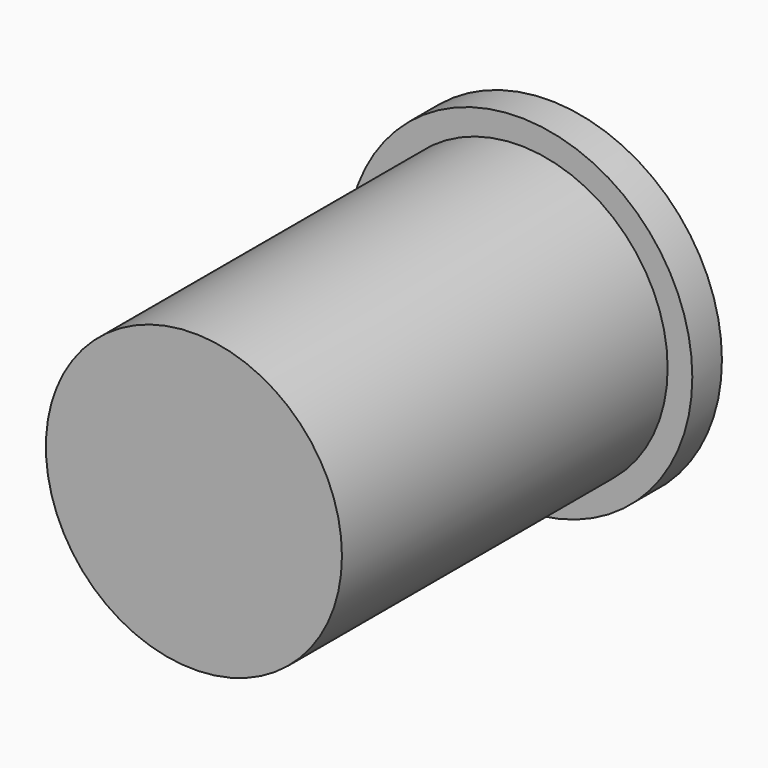
from build123d import *

# Parameters (mm, degrees)
CYLINDER008_R             = 7
CYLINDER008_DEPTH         = 1.5
CYLINDER007_R             = 6
CYLINDER007_DEPTH         = 18
FUSION002_PLACEMENT_ANGLE = 270


with BuildPart() as cylinder008:
    # Cylinder008 → Cylinder008 (new body)
    with BuildSketch(Plane.XY):
        Circle(CYLINDER008_R)
    extrude(amount=CYLINDER008_DEPTH)


with BuildPart() as dc_jack002:
    # Cylinder007 → Cylinder007 (new body)
    with BuildSketch(Plane.XY):
        Circle(CYLINDER007_R)
    extrude(amount=CYLINDER007_DEPTH)

    # Fusion002: union Cylinder008
    add(cylinder008.part)


with BuildPart() as dc_jack002_1:
    # Fusion002 placement: moved
    add(dc_jack002.part.moved(Location((170, 82.5, 13))).rotate(Axis((170, 82.5, 13), (-1, 0, 0)), FUSION002_PLACEMENT_ANGLE))


solid = dc_jack002_1.part
